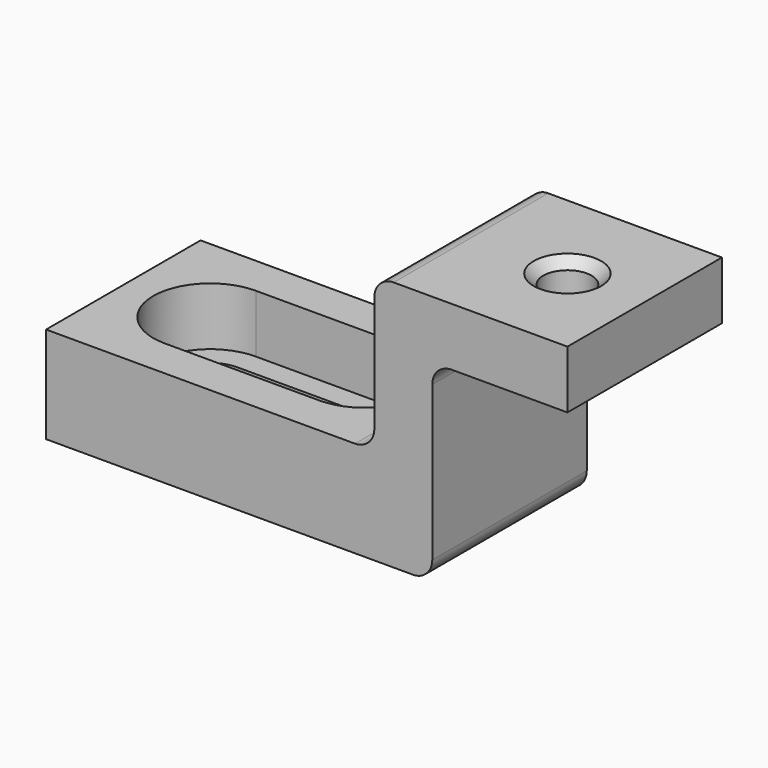
from build123d import *

# Parameters (mm, degrees)
F0_W     = 17
F0_H     = 10
F1_DEPTH = 5
F2_DEPTH = 2
F3_W     = 10
F3_H     = 10
F4_DEPTH = 3
F5_W     = 10
F5_H     = 10
F5_R     = 1.25
F6_DEPTH = 3
F7_R     = 1
F8_SIZE  = 0.5


with BuildPart() as f1:
    # F0 (on Top) → F1 (new body)
    with BuildSketch(Plane.XY):
        Rectangle(F0_W, F0_H)
        with BuildLine():
            ThreePointArc((-4, -2.95), (-6.95, 0), (-4, 2.95))
            Line((-4, 2.95), (4, 2.95))
            ThreePointArc((4, 2.95), (6.0859650045, 2.0859650045), (6.95, 0))
            ThreePointArc((6.95, 0), (6.0859650045, -2.0859650045), (4, -2.95))
            Line((4, -2.95), (-4, -2.95))
        make_face(mode=Mode.SUBTRACT)
    extrude(amount=F1_DEPTH)

    # F0 (on Top) → F2 (join)
    with BuildSketch(Plane.XY):
        with BuildLine():
            ThreePointArc((-4, -1.75), (-5.75, 0), (-4, 1.75))
            Line((-4, 1.75), (-4, 2.95))
            ThreePointArc((-4, 2.95), (-6.95, 0), (-4, -2.95))
            Line((-4, -2.95), (-4, -1.75))
        make_face()
        with BuildLine():
            Line((-4, 2.95), (-4, 1.75))
            Line((-4, 1.75), (-1.6251315826, 1.75))
            ThreePointArc((-1.6251315826, 1.75), (-2.6695865304, 2.6329641091), (-4, 2.95))
        make_face()
        with BuildLine():
            ThreePointArc((-4, 2.95), (-2.6695865304, 2.6329641091), (-1.6251315826, 1.75))
            Line((-1.6251315826, 1.75), (1.6251315826, 1.75))
            ThreePointArc((1.6251315826, 1.75), (2.6695865304, 2.6329641091), (4, 2.95))
            Line((4, 2.95), (-4, 2.95))
        make_face()
        with BuildLine():
            ThreePointArc((4, 2.95), (2.6695865304, 2.6329641091), (1.6251315826, 1.75))
            Line((1.6251315826, 1.75), (4, 1.75))
            Line((4, 1.75), (4, 2.95))
        make_face()
        with BuildLine():
            ThreePointArc((6.95, 0), (6.0859650045, 2.0859650045), (4, 2.95))
            Line((4, 2.95), (4, 1.75))
            ThreePointArc((4, 1.75), (5.2374368671, 1.2374368671), (5.75, 0))
            ThreePointArc((5.75, 0), (5.2374368671, -1.2374368671), (4, -1.75))
            Line((4, -1.75), (4, -2.95))
            ThreePointArc((4, -2.95), (6.0859650045, -2.0859650045), (6.95, 0))
        make_face()
        with BuildLine():
            Line((4, -1.75), (1.6251315826, -1.75))
            ThreePointArc((1.6251315826, -1.75), (2.6695865304, -2.6329641091), (4, -2.95))
            Line((4, -2.95), (4, -1.75))
        make_face()
        with BuildLine():
            Line((1.6251315826, -1.75), (-1.6251315826, -1.75))
            ThreePointArc((-1.6251315826, -1.75), (-2.6695865304, -2.6329641091), (-4, -2.95))
            Line((-4, -2.95), (4, -2.95))
            ThreePointArc((4, -2.95), (2.6695865304, -2.6329641091), (1.6251315826, -1.75))
        make_face()
        with BuildLine():
            Line((-1.6251315826, -1.75), (-4, -1.75))
            Line((-4, -1.75), (-4, -2.95))
            ThreePointArc((-4, -2.95), (-2.6695865304, -2.6329641091), (-1.6251315826, -1.75))
        make_face()
    extrude(amount=F2_DEPTH)

    # F3 (on face) → F4 (join)
    with BuildSketch(Plane.YZ.offset(8.5)):
        with Locations((0, 5)):
            Rectangle(F3_W, F3_H)
    extrude(amount=F4_DEPTH)

    # F5 (on face) → F6 (join)
    with BuildSketch(Plane.XY.offset(10)):
        with Locations((13.5, 0)):
            Rectangle(F5_W, F5_H)
        with Locations((14.5, 0)):
            Circle(F5_R, mode=Mode.SUBTRACT)
    extrude(amount=F6_DEPTH)

    # F7
    f7_edges = [f1.edges().sort_by_distance(p)[0] for p in [
        (8.5, 0, 13),
        (11.5, 0, 10),
        (11.5, 0, 0),
        (8.5, 0, 5),
    ]]
    fillet(f7_edges, radius=F7_R)

    # F8
    f8_edges = [f1.edges().sort_by_distance(p)[0] for p in [
        (15.75, 0, 11.5),
        (13.25, 0, 10),
        (13.25, 0, 13),
    ]]
    chamfer(f8_edges, length=F8_SIZE)


solid = f1.part
